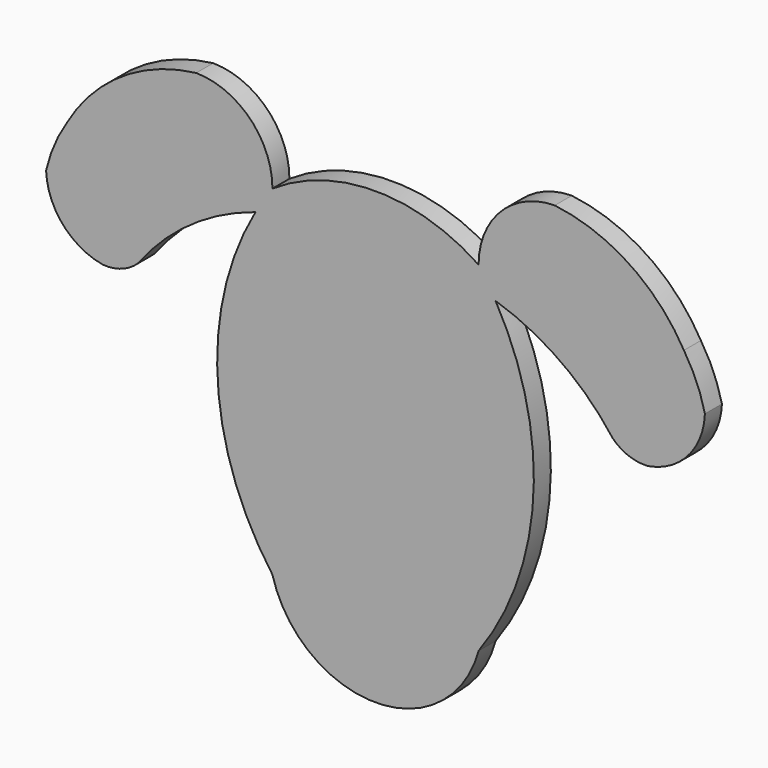
from build123d import *

# Parameters (mm, degrees)
F0_W     = 30.80549
F0_H     = 50.8
F1_DEPTH = 3.175


with BuildPart() as f1:
    # F0 (on Front) → F1 (new body)
    with BuildSketch(Plane.XZ):
        with BuildLine():
            ThreePointArc((-17.944349, 21.476508), (-16.72669, 23.47268), (-15.402745, 25.4))
            ThreePointArc((-15.402745, 25.4), (-18.732465, 33.49672), (-26.794965, 36.908468))
            ThreePointArc((-26.794965, 36.908468), (-37.959956, 32.80338), (-46.091986, 24.12128))
            ThreePointArc((-46.091986, 24.12128), (-47.984213, 20.597876), (-49.23066, 16.79771))
            ThreePointArc((-49.23066, 16.79771), (-46.703493, 10.464331), (-40.74462, 7.149198))
            ThreePointArc((-40.74462, 7.149198), (-37.902311, 7.533183), (-35.473524, 9.058686))
            ThreePointArc((-35.473524, 9.058686), (-27.68293, 16.642499), (-17.944349, 21.476508))
        make_face()
        with BuildLine():
            ThreePointArc((-17.944349, 21.476508), (-23.601777, -2.337389), (-15.402745, -25.4))
            Line((-15.402745, -25.4), (-15.402745, 25.4))
            ThreePointArc((-15.402745, 25.4), (-16.72669, 23.47268), (-17.944349, 21.476508))
        make_face()
        Rectangle(F0_W, F0_H)
        with BuildLine():
            Line((-15.402745, 25.4), (15.402745, 25.4))
            ThreePointArc((15.402745, 25.4), (0, 30.094329), (-15.402745, 25.4))
        make_face()
        with BuildLine():
            Line((15.402745, 25.4), (15.402745, -25.4))
            ThreePointArc((15.402745, -25.4), (23.601777, -2.337389), (17.944349, 21.476508))
            ThreePointArc((17.944349, 21.476508), (16.72669, 23.47268), (15.402745, 25.4))
        make_face()
        with BuildLine():
            ThreePointArc((-15.402745, -25.4), (0, -37.203728), (15.402745, -25.4))
            Line((15.402745, -25.4), (-15.402745, -25.4))
        make_face()
        with BuildLine():
            ThreePointArc((26.794965, 36.908468), (18.732465, 33.49672), (15.402745, 25.4))
            ThreePointArc((15.402745, 25.4), (16.72669, 23.47268), (17.944349, 21.476508))
            ThreePointArc((17.944349, 21.476508), (27.68293, 16.642499), (35.473524, 9.058686))
            ThreePointArc((35.473524, 9.058686), (37.902311, 7.533183), (40.74462, 7.149198))
            ThreePointArc((40.74462, 7.149198), (46.703493, 10.464331), (49.23066, 16.79771))
            ThreePointArc((49.23066, 16.79771), (47.984213, 20.597876), (46.091986, 24.12128))
            ThreePointArc((46.091986, 24.12128), (37.959956, 32.80338), (26.794965, 36.908468))
        make_face()
    extrude(amount=F1_DEPTH)


solid = f1.part
